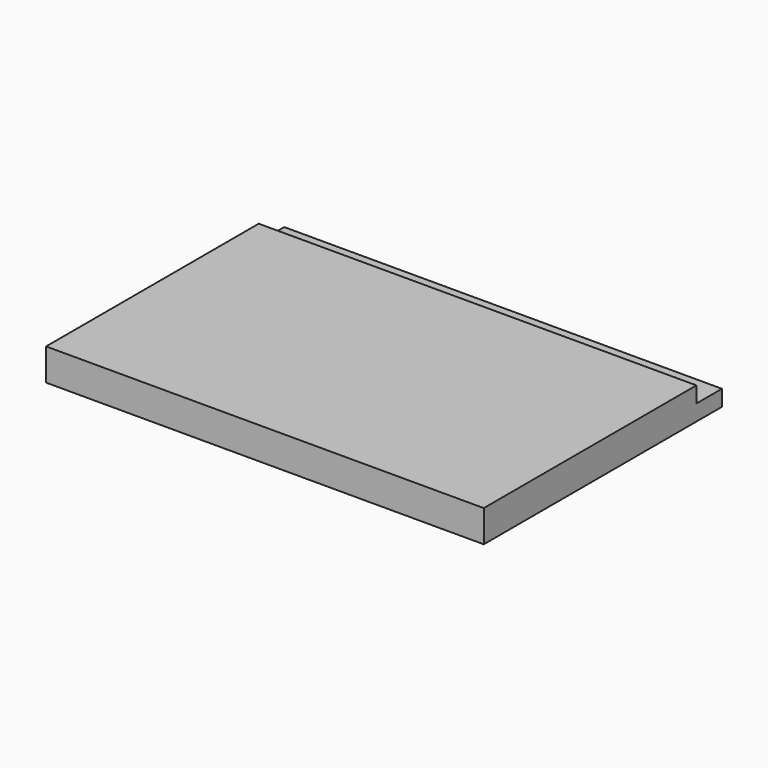
from build123d import *

# Parameters (mm, degrees)
SKETCH_W     = 247
SKETCH_H     = 168
PAD_DEPTH    = 18
SKETCH001_W  = 247
SKETCH001_H  = 18
POCKET_DEPTH = 9


with BuildPart() as part:
    # Sketch → Pad (new body)
    with BuildSketch(Plane.XY):
        with Locations((-123.5, 84)):
            Rectangle(SKETCH_W, SKETCH_H)
    extrude(amount=PAD_DEPTH)

    # Sketch001 (on Face6 of Pad) → Pocket (cut)
    with BuildSketch(Plane.XY.offset(18)):
        with Locations((-123.5, 159)):
            Rectangle(SKETCH001_W, SKETCH001_H)
    extrude(amount=-POCKET_DEPTH, mode=Mode.SUBTRACT)


solid = part.part
